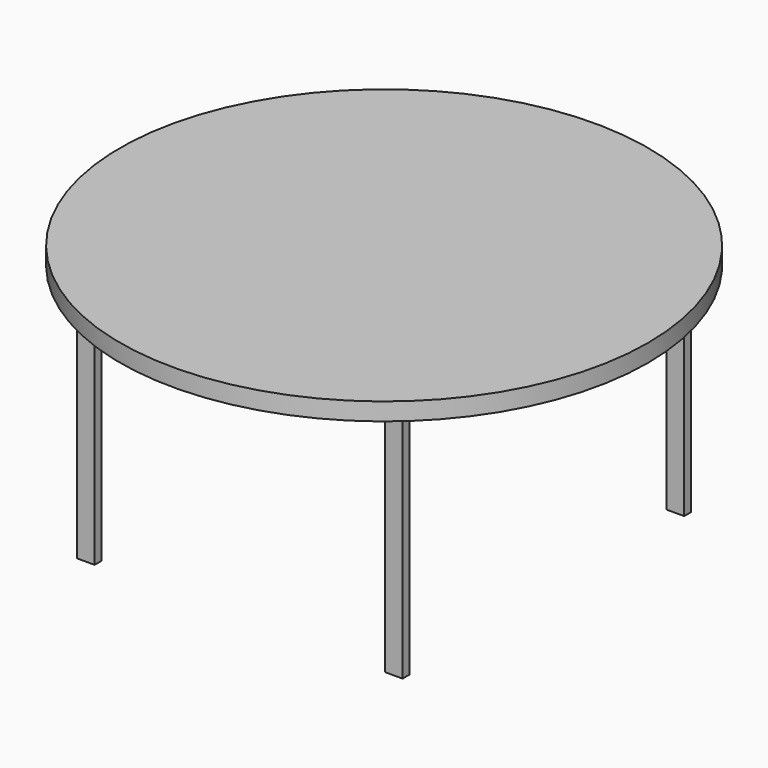
from build123d import *

# Parameters (mm, degrees)
F0_R     = 762
F1_DEPTH = 50.8
F2_W     = 50.8
F2_H     = 25.4
F3_DEPTH = 685.8


with BuildPart() as f1:
    # F0 (on Top) → F1 (new body)
    with BuildSketch(Plane.XY):
        Circle(F0_R)
    extrude(amount=F1_DEPTH)

    # F2 (on face) → F3 (join)
    with BuildSketch(Plane(origin=(0, 0, 0), x_dir=(1, 0, 0), z_dir=(0, 0, -1))):
        with Locations((-444.5, 508)):
            Rectangle(F2_W, F2_H)
        with Locations((444.5, 508)):
            Rectangle(F2_W, F2_H)
        with Locations((-444.5, -508)):
            Rectangle(F2_W, F2_H)
        with Locations((444.5, -508)):
            Rectangle(F2_W, F2_H)
    extrude(amount=F3_DEPTH)


solid = f1.part
